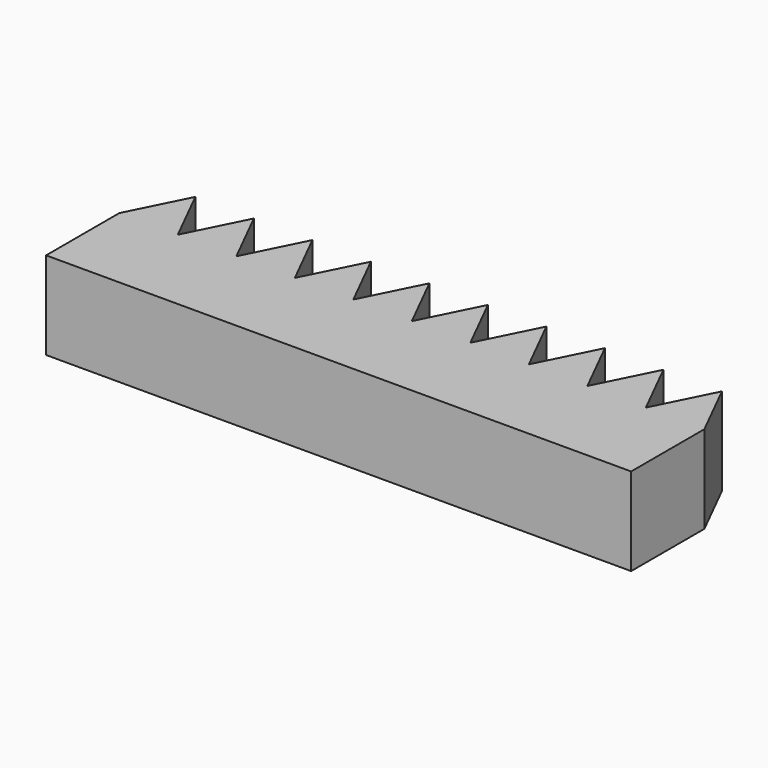
from build123d import *

# Parameters (mm, degrees)
F1_DEPTH = 3


with BuildPart() as f1:
    # F0 (on Top) → F1 (new body)
    with BuildSketch(Plane.XY):
        Polygon((1, 2), (0, 0), (2, 0), align=None)
        Polygon((2, 0), (0, 0), (0, -3.129371), (20, -3.129371), (20, 0), (18, 0), (16, 0), (14, 0), (12, 0), (10, 0), (8, 0), (6, 0), (4, 0), align=None)
        Polygon((3, 2), (2, 0), (4, 0), align=None)
        Polygon((5, 2), (4, 0), (6, 0), align=None)
        Polygon((7, 2), (6, 0), (8, 0), align=None)
        Polygon((18, 0), (20, 0), (19, 2), align=None)
        Polygon((9, 2), (8, 0), (10, 0), align=None)
        Polygon((16, 0), (18, 0), (17, 2), align=None)
        Polygon((11, 2), (10, 0), (12, 0), align=None)
        Polygon((14, 0), (16, 0), (15, 2), align=None)
        Polygon((13, 2), (12, 0), (14, 0), align=None)
    extrude(amount=F1_DEPTH)


solid = f1.part
